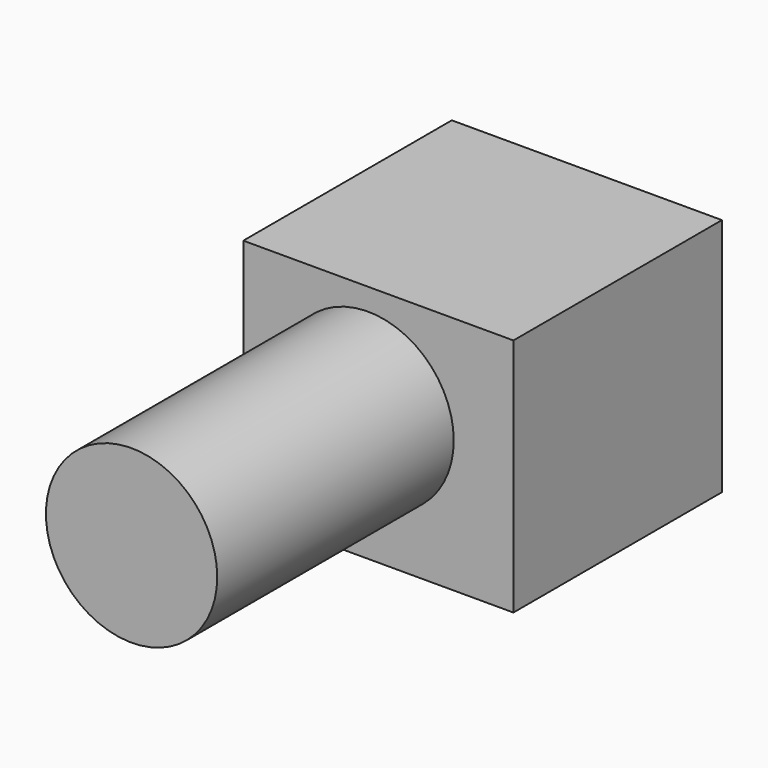
from build123d import *

# Parameters (mm, degrees)
F0_W     = 92.144217
F0_H     = 81.716377
F1_DEPTH = 88.9
F3_D     = 6.35
F4_R     = 29.219742
F5_DEPTH = 100.838


with BuildPart() as f1:
    # F0 (on Front) → F1 (new body)
    with BuildSketch(Plane.XZ):
        with Locations((3.507545, -4.171138)):
            Rectangle(F0_W, F0_H)
    extrude(amount=F1_DEPTH)

    # F3 (through all)
    with Locations(Plane.XZ.offset(88.9)):
        with Locations((0, 0)):
            Hole(F3_D / 2)

    # F4 (on face) → F5 (join)
    with BuildSketch(Plane.XZ.offset(88.9)):
        Circle(F4_R)
    extrude(amount=F5_DEPTH)


solid = f1.part
